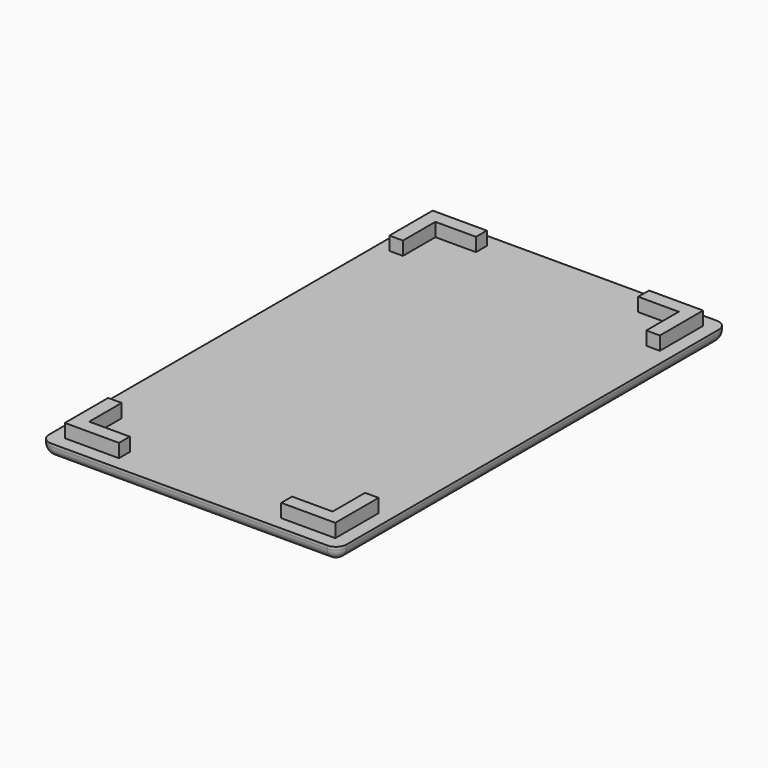
from build123d import *

# Parameters (mm, degrees)
F1_DEPTH = 6.35
F0_W     = 69.85
F0_H     = 114.3
F2_DEPTH = 3.175
F3_R     = 2.5
F4_R     = 2.5


with BuildPart() as f1:
    # F0 (on Top) → F1 (new body)
    with BuildSketch(Plane.XY):
        Polygon((-19.05, 53.975), (-31.75, 53.975), (-31.75, 41.275), (-28.575, 41.275), (-28.575, 50.8), (-19.05, 50.8), align=None)
    extrude(amount=F1_DEPTH)


with BuildPart() as f1b:
    # F0 (on Top) → F1, piece 2 (new body)
    with BuildSketch(Plane.XY):
        Polygon((31.75, 41.275), (31.75, 53.975), (19.05, 53.975), (19.05, 50.8), (28.575, 50.8), (28.575, 41.275), align=None)
    extrude(amount=F1_DEPTH)


with BuildPart() as f1c:
    # F0 (on Top) → F1, piece 3 (new body)
    with BuildSketch(Plane.XY):
        Polygon((31.75, -41.275), (28.575, -41.275), (28.575, -50.8), (19.05, -50.8), (19.05, -53.975), (31.75, -53.975), align=None)
    extrude(amount=F1_DEPTH)


with BuildPart() as f1d:
    # F0 (on Top) → F1, piece 4 (new body)
    with BuildSketch(Plane.XY):
        Polygon((-31.75, -41.275), (-31.75, -53.975), (-19.05, -53.975), (-19.05, -50.8), (-28.575, -50.8), (-28.575, -41.275), align=None)
    extrude(amount=F1_DEPTH)


with BuildPart() as f2:
    # F0 (on Top) → F2 (new body)
    with BuildSketch(Plane.XY):
        Rectangle(F0_W, F0_H)
        Polygon((-19.05, -53.975), (-31.75, -53.975), (-31.75, -41.275), (-28.575, -41.275), (-28.575, -50.8), (-19.05, -50.8), align=None, mode=Mode.SUBTRACT)
        Polygon((28.575, -50.8), (28.575, -41.275), (31.75, -41.275), (31.75, -53.975), (19.05, -53.975), (19.05, -50.8), align=None, mode=Mode.SUBTRACT)
        Polygon((-31.75, 41.275), (-31.75, 53.975), (-19.05, 53.975), (-19.05, 50.8), (-28.575, 50.8), (-28.575, 41.275), align=None, mode=Mode.SUBTRACT)
        Polygon((19.05, 53.975), (31.75, 53.975), (31.75, 41.275), (28.575, 41.275), (28.575, 50.8), (19.05, 50.8), align=None, mode=Mode.SUBTRACT)
    extrude(amount=F2_DEPTH)

    # F3
    f3_edges = [f2.edges().sort_by_distance(p)[0] for p in [
        (-34.925, -57.15, 1.5875),
        (-34.925, 57.15, 1.5875),
        (34.925, 57.15, 1.5875),
        (34.925, -57.15, 1.5875),
    ]]
    fillet(f3_edges, radius=F3_R)

    # F4
    f4_edges = [f2.edges().sort_by_distance(p)[0] for p in [
        (0, -57.15, 0),
        (34.192767, -56.417767, 0),
        (34.925, 0, 0),
        (34.192767, 56.417767, 0),
        (-34.925, 0, 0),
        (-34.192767, -56.417767, 0),
        (0, 57.15, 0),
        (-34.192767, 56.417767, 0),
    ]]
    fillet(f4_edges, radius=F4_R)


solid = Compound([f1.part, f1b.part, f1c.part, f1d.part, f2.part])
